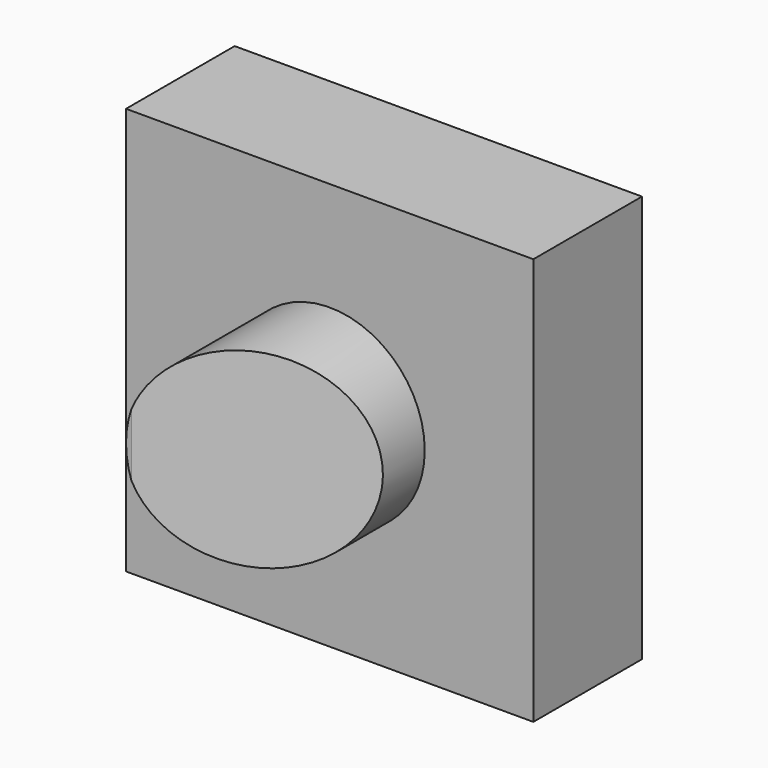
from build123d import *

# Parameters (mm, degrees)
F0_W     = 38.1
F0_H     = 38.1
F1_DEPTH = 12.7
F2_R     = 8.89
F3_DEPTH = 12.7
F5_DEPTH = 254


with BuildPart() as f1:
    # F0 (on Front) → F1 (new body)
    with BuildSketch(Plane.XZ):
        with Locations((19.05, 19.05)):
            Rectangle(F0_W, F0_H)
    extrude(amount=F1_DEPTH)

    # F2 (on face) → F3 (join)
    with BuildSketch(Plane.XZ.offset(12.7)):
        with Locations((19.05, 19.05)):
            Circle(F2_R)
    extrude(amount=F3_DEPTH)

    # F4 (on Top) → F5 (cut)
    with BuildSketch(Plane.XY):
        Polygon((29.379437, -16.942142), (9.009695, -26.147699), (29.379437, -26.147699), align=None)
    extrude(amount=F5_DEPTH, mode=Mode.SUBTRACT)


solid = f1.part
